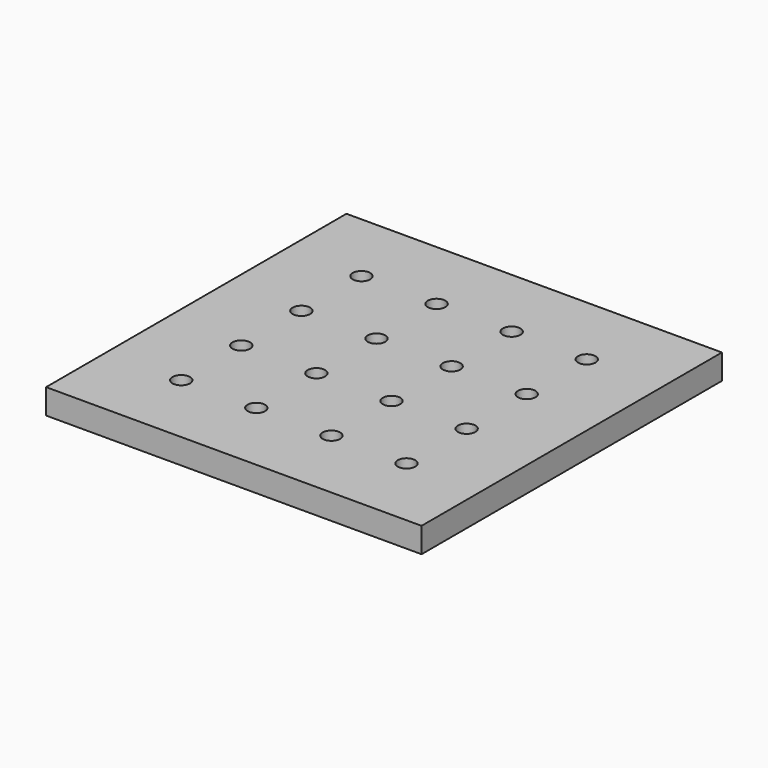
from build123d import *

# Parameters (mm, degrees)
F0_W     = 150
F0_H     = 150
F0_R     = 3.5
F1_DEPTH = 10


with BuildPart() as f1:
    # F0 (on Top) → F1 (new body)
    with BuildSketch(Plane.XY):
        with Locations((-75, -75)):
            Rectangle(F0_W, F0_H)
        with Locations((-120, -120)):
            Circle(F0_R, mode=Mode.SUBTRACT)
        with Locations((-90, -120)):
            Circle(F0_R, mode=Mode.SUBTRACT)
        with Locations((-120, -90)):
            Circle(F0_R, mode=Mode.SUBTRACT)
        with Locations((-90, -90)):
            Circle(F0_R, mode=Mode.SUBTRACT)
        with Locations((-60, -120)):
            Circle(F0_R, mode=Mode.SUBTRACT)
        with Locations((-30, -120)):
            Circle(F0_R, mode=Mode.SUBTRACT)
        with Locations((-60, -90)):
            Circle(F0_R, mode=Mode.SUBTRACT)
        with Locations((-30, -90)):
            Circle(F0_R, mode=Mode.SUBTRACT)
        with Locations((-120, -60)):
            Circle(F0_R, mode=Mode.SUBTRACT)
        with Locations((-90, -60)):
            Circle(F0_R, mode=Mode.SUBTRACT)
        with Locations((-120, -30)):
            Circle(F0_R, mode=Mode.SUBTRACT)
        with Locations((-90, -30)):
            Circle(F0_R, mode=Mode.SUBTRACT)
        with Locations((-60, -60)):
            Circle(F0_R, mode=Mode.SUBTRACT)
        with Locations((-30, -60)):
            Circle(F0_R, mode=Mode.SUBTRACT)
        with Locations((-60, -30)):
            Circle(F0_R, mode=Mode.SUBTRACT)
        with Locations((-30, -30)):
            Circle(F0_R, mode=Mode.SUBTRACT)
    extrude(amount=F1_DEPTH)


solid = f1.part
